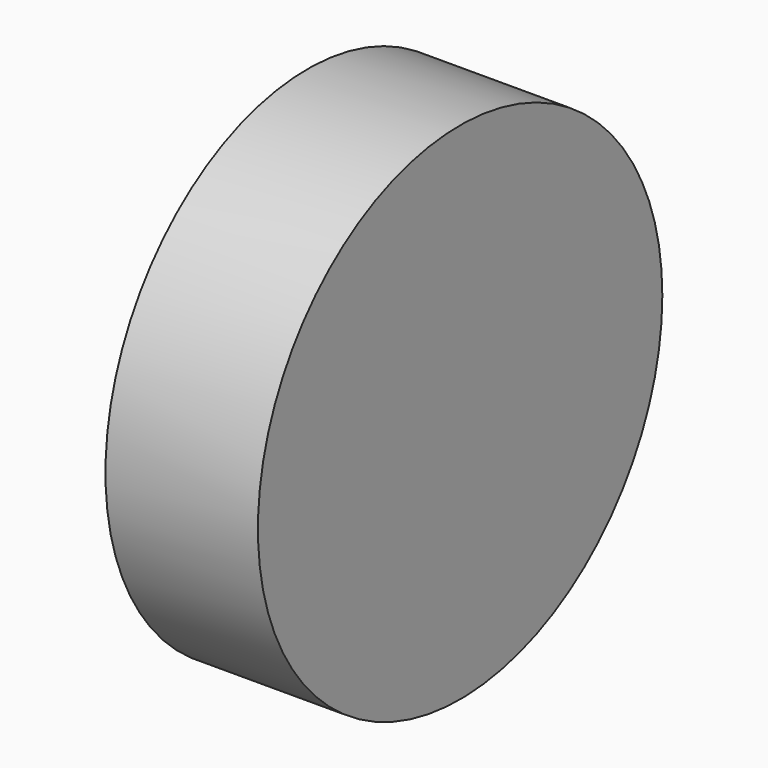
from build123d import *

# Parameters (mm, degrees)
F2_DEPTH = 51.2674227357
F3_R     = 138.682012458
F4_DEPTH = 83.662904799
F5_T     = -2.54


with BuildPart() as f2:
    # F1 (on face) → F2 (new body)
    with BuildSketch(Plane.XY):
        Polygon((44.0687835217, -78.1884640455), (15.9933380783, 41.3164198399), (-62.6282095909, 41.3164198399), (-37.3669266701, -78.1884640455), align=None)
    extrude(amount=F2_DEPTH)


with BuildPart() as f2b:
    # F0 (on Top) → F2, piece 2 (new body)
    with BuildSketch(Plane.XY):
        Polygon((15.9933380783, 41.3164198399), (-62.6282095909, 41.3164198399), (-37.3669266701, -78.1884640455), (44.0687835217, -78.1884640455), align=None)
    extrude(amount=F2_DEPTH)


with BuildPart() as f4:
    # F3 (on Right) → F4 (new body)
    with BuildSketch(Plane.YZ):
        with Locations((-49.230247736, 38.9940589666)):
            Circle(F3_R)
    extrude(amount=F4_DEPTH)

    # F5
    f5_openings = [f4.faces().sort_by_distance(p)[0] for p in [
        (0, -49.230248, 38.994059),
    ]]
    offset(amount=F5_T, openings=f5_openings)


solid = Compound([f2.part, f2b.part, f4.part])
